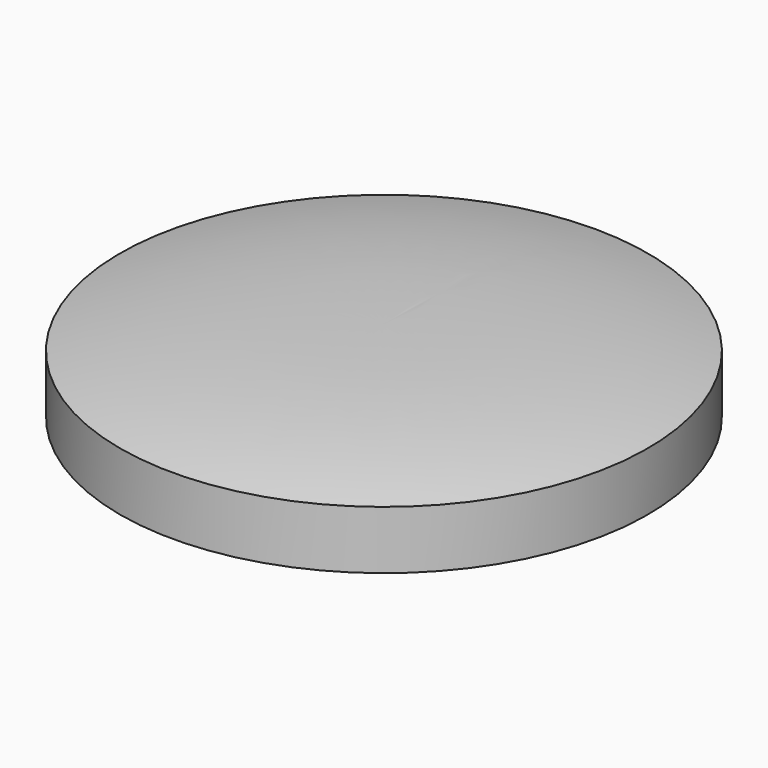
from build123d import *


with BuildPart() as f1:
    # F0 (on Right) → F1 (revolve)
    with BuildSketch(Plane.YZ):
        with BuildLine():
            Line((0, 2.5), (0, 0))
            Line((0, 0), (0, -2.5))
            add(Edge.make_bspline(
                [(0, -2.5), (4.901443, -2.5), (8.541799, -2.303579), (12.5, -1.381431)],
                knots=[0, 0, 0, 0, 12.549948, 12.549948, 12.549948, 12.549948], degree=3))
            Line((12.5, -1.381431), (12.5, 0))
            Line((12.5, 0), (12.5, 1.381431))
            add(Edge.make_bspline(
                [(0, 2.5), (4.901443, 2.5), (8.541799, 2.303579), (12.5, 1.381431)],
                knots=[0, 0, 0, 0, 12.549948, 12.549948, 12.549948, 12.549948], degree=3))
        make_face()
    revolve(axis=Axis((0, 0, 1.25), (0, 0, 1)))


solid = f1.part
